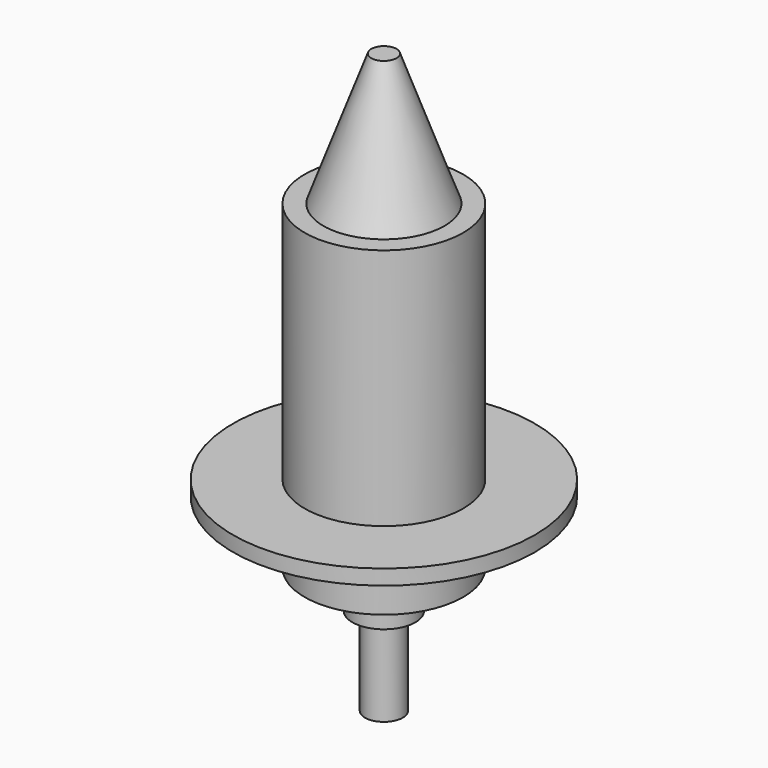
from build123d import *

# Parameters (mm, degrees)
CYLINDER002_R     = 2.5
CYLINDER002_DEPTH = 3
CYLINDER001_R     = 12
CYLINDER001_DEPTH = 1.2
CYLINDER_R        = 6.3
CYLINDER_DEPTH    = 25.5
CYLINDER003_R     = 1.5
CYLINDER003_DEPTH = 10


with BuildPart() as cylinder002:
    # Cylinder002 → Cylinder002 (new body)
    with BuildSketch(Plane.XY.offset(-3)):
        Circle(CYLINDER002_R)
    extrude(amount=CYLINDER002_DEPTH)


with BuildPart() as cylinder001:
    # Cylinder001 → Cylinder001 (new body)
    with BuildSketch(Plane.XY.offset(5)):
        Circle(CYLINDER001_R)
    extrude(amount=CYLINDER001_DEPTH)


with BuildPart() as cylinder:
    # Cylinder → Cylinder (new body)
    with BuildSketch(Plane.XY):
        Circle(CYLINDER_R)
    extrude(amount=CYLINDER_DEPTH)


with BuildPart() as cylinder003:
    # Cylinder003 → Cylinder003 (new body)
    with BuildSketch(Plane.XY.offset(-10)):
        Circle(CYLINDER003_R)
    extrude(amount=CYLINDER003_DEPTH)


with BuildPart() as assembly:
    # Cone → Cone (revolve)
    with BuildSketch(Plane(origin=(0, 0, 25), x_dir=(1, 0, 0), z_dir=(0, -1, 0))):
        Polygon((0, 0), (5, 0), (1, 11), (0, 11), align=None)
    revolve(axis=Axis((0, 0, 25), (0, 0, 1)))

    # Fusion: union Cylinder002, Cylinder001, Cylinder, Cylinder003
    add(cylinder002.part)
    add(cylinder001.part)
    add(cylinder.part)
    add(cylinder003.part)


solid = assembly.part
